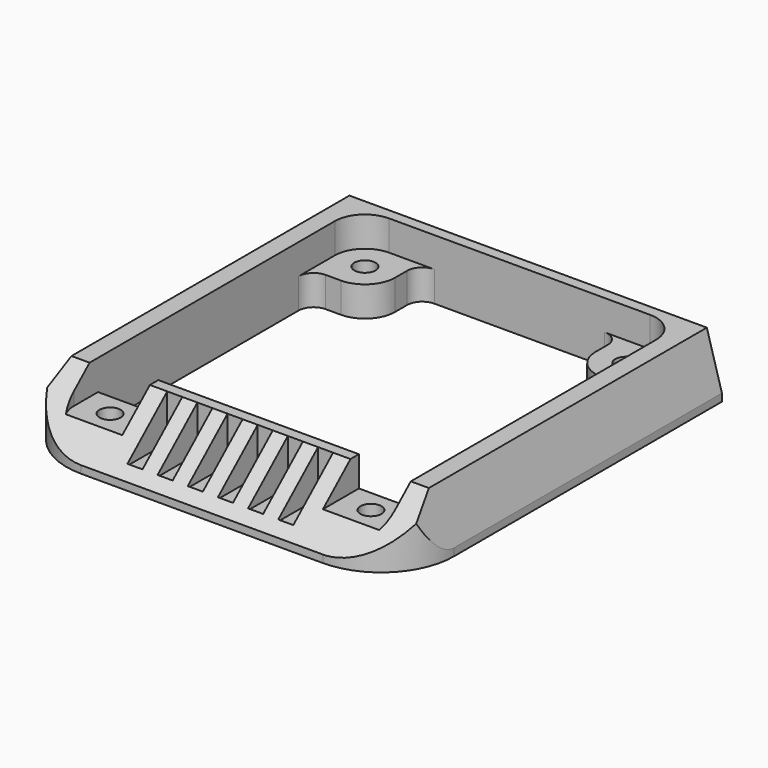
from build123d import *

# Parameters (mm, degrees)
F0_R      = 1.4
F1_DEPTH  = 8
F3_DEPTH  = 54.07728
F5_DEPTH  = 51.401
F6_R      = 2
F8_DEPTH  = 4
F9_R      = 1.4
F10_DEPTH = 4
F11_W     = 2
F11_H     = 6.6
F12_DEPTH = 6


with BuildPart() as f1:
    # F0 (on Top) → F1 (new body)
    with BuildSketch(Plane.XY):
        with BuildLine():
            Line((46.7, 44.37628), (-4.7, 44.37628))
            Line((-4.7, 44.37628), (-4.7, -0.02469))
            ThreePointArc((-4.7, -0.02469), (-1.8661673111, -6.8661673111), (4.97531, -9.7))
            Line((4.97531, -9.7), (37.02469, -9.7))
            ThreePointArc((37.02469, -9.7), (43.8661673111, -6.8661673111), (46.7, -0.02469))
            Line((46.7, -0.02469), (46.7, 44.37628))
        make_face()
        with BuildLine():
            Line((7.7, 38.94554), (7.7, 42.94554))
            Line((7.7, 42.94554), (34.3, 42.94554))
            Line((34.3, 42.94554), (34.3, 38.94554))
            ThreePointArc((34.3, 38.94554), (35.4715728753, 36.1171128753), (38.3, 34.94554))
            Line((38.3, 34.94554), (42.3, 34.94554))
            Line((42.3, 34.94554), (42.3, -0.3))
            Line((42.3, -0.3), (-0.3, -0.3))
            Line((-0.3, -0.3), (-0.3, 34.94554))
            Line((-0.3, 34.94554), (3.7, 34.94554))
            ThreePointArc((3.7, 34.94554), (6.5284271247, 36.1171128753), (7.7, 38.94554))
        make_face(mode=Mode.SUBTRACT)
        with Locations((3.7, 38.94554)):
            Circle(F0_R, mode=Mode.SUBTRACT)
        with Locations((38.3, 38.94554)):
            Circle(F0_R, mode=Mode.SUBTRACT)
    extrude(amount=F1_DEPTH)

    # F2 (on face) → F3 (cut, through all)
    with BuildSketch(Plane(origin=(0, 44.37628, 0), x_dir=(-1, 0, 0), z_dir=(0, 1, 0))):
        Polygon((4.7, 1), (4.7, 8), (2.7, 8), align=None)
        Polygon((-44.7, 8), (-46.7, 8), (-46.7, 1), align=None)
    extrude(amount=-F3_DEPTH, mode=Mode.SUBTRACT)

    # F4 (on face) → F5 (cut, through all)
    with BuildSketch(Plane(origin=(-4.7, 0, 0), x_dir=(0, -1, 0), z_dir=(-1, 0, 0))):
        Polygon((9.7, 8), (1.7, 8), (9.7, 1), align=None)
    extrude(amount=-F5_DEPTH, mode=Mode.SUBTRACT)

    # F6
    f6_edges = [f1.edges().sort_by_distance(p)[0] for p in [
        (7.7, 42.94554, 4),
        (34.3, 42.94554, 4),
        (42.3, 34.94554, 4),
        (-0.3, 34.94554, 4),
    ]]
    fillet(f6_edges, radius=F6_R)

    # F7 (on face) → F8 (cut)
    with BuildSketch(Plane.XY.offset(8)):
        with BuildLine():
            Line((9.7, 42.94554), (3.7, 42.94554))
            ThreePointArc((3.7, 42.94554), (0.8715728753, 41.7739671247), (-0.3, 38.94554))
            Line((-0.3, 38.94554), (-0.3, 32.94554))
            ThreePointArc((-0.3, 32.94554), (0.2857864376, 34.3597535624), (1.7, 34.94554))
            Line((1.7, 34.94554), (3.7, 34.94554))
            ThreePointArc((3.7, 34.94554), (6.5284271247, 36.1171128753), (7.7, 38.94554))
            Line((7.7, 38.94554), (7.7, 40.94554))
            ThreePointArc((7.7, 40.94554), (8.2857864376, 42.3597535624), (9.7, 42.94554))
        make_face()
        with BuildLine():
            Line((38.3, 42.94554), (32.3, 42.94554))
            ThreePointArc((32.3, 42.94554), (33.7142135624, 42.3597535624), (34.3, 40.94554))
            Line((34.3, 40.94554), (34.3, 38.94554))
            ThreePointArc((34.3, 38.94554), (35.4715728753, 36.1171128753), (38.3, 34.94554))
            Line((38.3, 34.94554), (40.3, 34.94554))
            ThreePointArc((40.3, 34.94554), (41.7142135624, 34.3597535624), (42.3, 32.94554))
            Line((42.3, 32.94554), (42.3, 38.94554))
            ThreePointArc((42.3, 38.94554), (41.1284271247, 41.7739671247), (38.3, 42.94554))
        make_face()
        with BuildLine():
            Line((7.7, -0.3), (-0.3, -0.3))
            Line((-0.3, -0.3), (-0.3, -4.3))
            ThreePointArc((-0.3, -4.3), (0.8715728753, -7.1284271247), (3.7, -8.3))
            Line((3.7, -8.3), (7.7, -8.3))
            Line((7.7, -8.3), (7.7, -0.3))
        make_face()
        with BuildLine():
            Line((42.3, -4.3), (42.3, -0.3))
            Line((42.3, -0.3), (34.3, -0.3))
            Line((34.3, -0.3), (34.3, -8.3))
            Line((34.3, -8.3), (38.3, -8.3))
            ThreePointArc((38.3, -8.3), (41.1284271247, -7.1284271247), (42.3, -4.3))
        make_face()
    extrude(amount=-F8_DEPTH, mode=Mode.SUBTRACT)

    # F9 (on face) → F10 (cut, through all)
    with BuildSketch(Plane.XY.offset(4)):
        with Locations((3.7, -3.3)):
            Circle(F9_R)
        with Locations((38.3, -3.3)):
            Circle(F9_R)
    extrude(amount=-F10_DEPTH, mode=Mode.SUBTRACT)

    # F11 (on face) → F12 (cut)
    with BuildSketch(Plane.XY.offset(8)):
        with Locations((11, -5)):
            Rectangle(F11_W, F11_H)
        with Locations((15, -5)):
            Rectangle(F11_W, F11_H)
        with Locations((19, -5)):
            Rectangle(F11_W, F11_H)
        with Locations((31, -5)):
            Rectangle(F11_W, F11_H)
        with Locations((27, -5)):
            Rectangle(F11_W, F11_H)
        with Locations((23, -5)):
            Rectangle(F11_W, F11_H)
    extrude(amount=-F12_DEPTH, mode=Mode.SUBTRACT)


solid = f1.part
